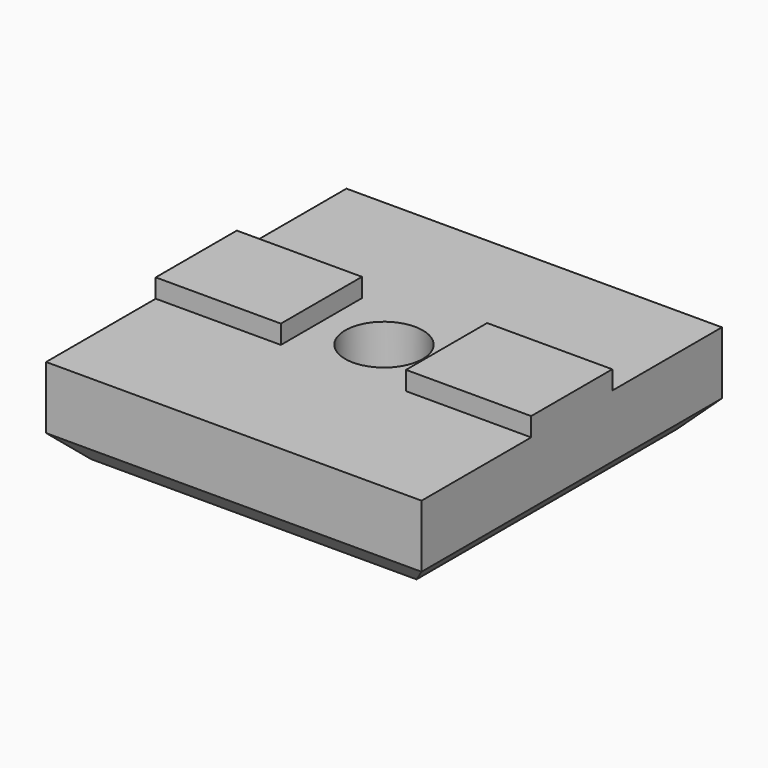
from build123d import *

# Parameters (mm, degrees)
SKETCH_W     = 30
SKETCH_H     = 30
PAD_DEPTH    = 7
SKETCH001_W  = 10
SKETCH001_H  = 8.1
PAD001_DEPTH = 1.5
SKETCH002_R  = 3.1
POCKET_DEPTH = 7.001
CHAMFER_SIZE = 2


with BuildPart() as part:
    # Sketch → Pad (new body)
    with BuildSketch(Plane.XY):
        Rectangle(SKETCH_W, SKETCH_H)
    extrude(amount=PAD_DEPTH)

    # Sketch001 (on Face6 of Pad) → Pad001 (join)
    with BuildSketch(Plane.XY.offset(7)):
        with Locations((-10, 0)):
            Rectangle(SKETCH001_W, SKETCH001_H)
        with Locations((10, 0)):
            Rectangle(SKETCH001_W, SKETCH001_H)
    extrude(amount=PAD001_DEPTH)

    # Sketch002 (on Face5 of Pad001) → Pocket (cut, through all)
    with BuildSketch(Plane.XY.offset(7)):
        Circle(SKETCH002_R)
    extrude(amount=-POCKET_DEPTH, mode=Mode.SUBTRACT)

    # Chamfer
    chamfer_edges = [part.edges().sort_by_distance(p)[0] for p in [
        (15, 0, 0),
        (0, -15, 0),
        (-15, 0, 0),
        (0, 15, 0),
    ]]
    chamfer(chamfer_edges, length=CHAMFER_SIZE)


solid = part.part
